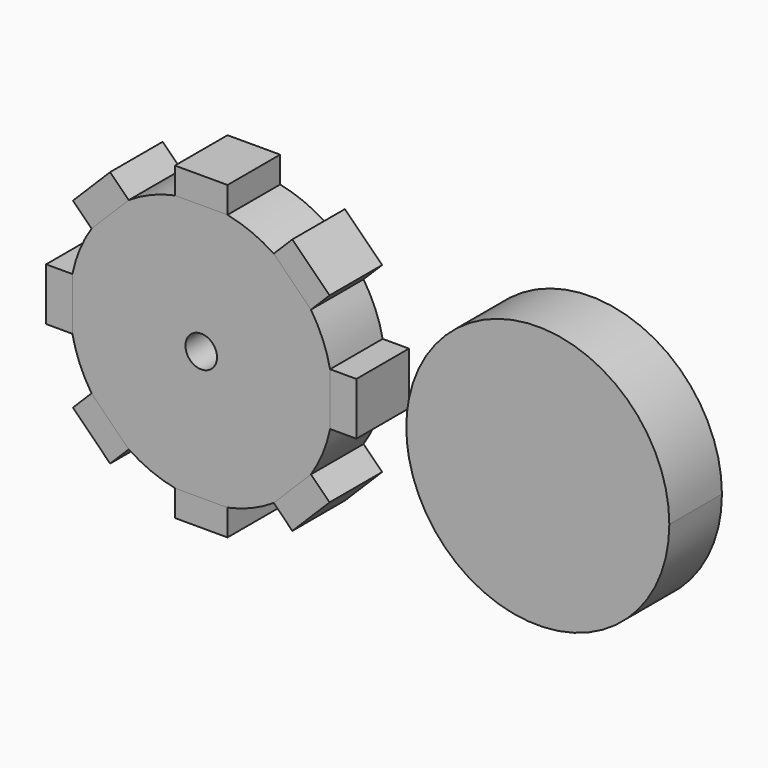
from build123d import *

# Parameters (mm, degrees)
F0_R     = 63.5
F1_DEPTH = 31.75
F3_DEPTH = 31.75
F4_W     = 25.4
F4_H     = 12.7
F5_DEPTH = 31.75
F4_W_2   = 12.7
F4_H_2   = 25.4
F6_R     = 7.62
F7_DEPTH = 31.75
F9_DEPTH = 31.75


with BuildPart() as f1:
    # F0 (on Front) → F1 (new body)
    with BuildSketch(Plane.XZ):
        Circle(F0_R)
    extrude(amount=F1_DEPTH)

    # F2 (on face) → F3 (cut)
    with BuildSketch(Plane.XZ.offset(31.75)):
        with BuildLine():
            ThreePointArc((12.7, 62.2170394667), (0, 63.5), (-12.7, 62.2170394667))
            Line((-12.7, 62.2170394667), (12.7, 62.2170394667))
        make_face()
        with BuildLine():
            Line((-52.9743466333, 35.0138343912), (-35.0138343912, 52.9743466333))
            ThreePointArc((-35.0138343912, 52.9743466333), (-44.9012806053, 44.9012806053), (-52.9743466333, 35.0138343912))
        make_face()
        with BuildLine():
            Line((-62.2170394667, -12.7), (-62.2170394667, 12.7))
            ThreePointArc((-62.2170394667, 12.7), (-63.5, 0), (-62.2170394667, -12.7))
        make_face()
        with BuildLine():
            Line((-35.0138343912, -52.9743466333), (-52.9743466333, -35.0138343912))
            ThreePointArc((-52.9743466333, -35.0138343912), (-44.9012806053, -44.9012806053), (-35.0138343912, -52.9743466333))
        make_face()
        with BuildLine():
            Line((12.7, -62.2170394667), (-12.7, -62.2170394667))
            ThreePointArc((-12.7, -62.2170394667), (0, -63.5), (12.7, -62.2170394667))
        make_face()
        with BuildLine():
            Line((52.9743466333, -35.0138343912), (35.0138343912, -52.9743466333))
            ThreePointArc((35.0138343912, -52.9743466333), (44.9012806053, -44.9012806053), (52.9743466333, -35.0138343912))
        make_face()
        with BuildLine():
            Line((62.2170394667, 12.7), (62.2170394667, -12.7))
            ThreePointArc((62.2170394667, -12.7), (63.5, 0), (62.2170394667, 12.7))
        make_face()
        with BuildLine():
            Line((35.0138343912, 52.9743466333), (52.9743466333, 35.0138343912))
            ThreePointArc((52.9743466333, 35.0138343912), (44.9012806053, 44.9012806053), (35.0138343912, 52.9743466333))
        make_face()
    extrude(amount=-F3_DEPTH, mode=Mode.SUBTRACT)

    # F6 (on face) → F7 (cut)
    with BuildSketch(Plane.XZ.offset(31.75)):
        Circle(F6_R)
    extrude(amount=-F7_DEPTH, mode=Mode.SUBTRACT)


with BuildPart() as f5:
    # F4 (on Front) → F5 (new body)
    with BuildSketch(Plane.XZ):
        with Locations((0, 68.5670394667)):
            Rectangle(F4_W, F4_H)
    extrude(amount=F5_DEPTH)


with BuildPart() as f5b:
    # F4 (on Front) → F5, piece 2 (new body)
    with BuildSketch(Plane.XZ):
        Polygon((-43.9940905122, 61.9546027544), (-61.9546027544, 43.9940905122), (-52.9743466333, 35.0138343912), (-35.0138343912, 52.9743466333), align=None)
    extrude(amount=F5_DEPTH)


with BuildPart() as f5c:
    # F4 (on Front) → F5, piece 3 (new body)
    with BuildSketch(Plane.XZ):
        with Locations((-68.5670394667, 0)):
            Rectangle(F4_W_2, F4_H_2)
    extrude(amount=F5_DEPTH)


with BuildPart() as f5d:
    # F4 (on Front) → F5, piece 4 (new body)
    with BuildSketch(Plane.XZ):
        Polygon((-61.9546027544, -43.9940905122), (-43.9940905122, -61.9546027544), (-35.0138343912, -52.9743466333), (-52.9743466333, -35.0138343912), align=None)
    extrude(amount=F5_DEPTH)


with BuildPart() as f5e:
    # F4 (on Front) → F5, piece 5 (new body)
    with BuildSketch(Plane.XZ):
        with Locations((0, -68.5670394667)):
            Rectangle(F4_W, F4_H)
    extrude(amount=F5_DEPTH)


with BuildPart() as f5f:
    # F4 (on Front) → F5, piece 6 (new body)
    with BuildSketch(Plane.XZ):
        Polygon((43.9940905122, -61.9546027544), (61.9546027544, -43.9940905122), (52.9743466333, -35.0138343912), (35.0138343912, -52.9743466333), align=None)
    extrude(amount=F5_DEPTH)


with BuildPart() as f5g:
    # F4 (on Front) → F5, piece 7 (new body)
    with BuildSketch(Plane.XZ):
        with Locations((68.5670394667, 0)):
            Rectangle(F4_W_2, F4_H_2)
    extrude(amount=F5_DEPTH)


with BuildPart() as f5h:
    # F4 (on Front) → F5, piece 8 (new body)
    with BuildSketch(Plane.XZ):
        Polygon((61.9546027544, 43.9940905122), (43.9940905122, 61.9546027544), (35.0138343912, 52.9743466333), (52.9743466333, 35.0138343912), align=None)
    extrude(amount=F5_DEPTH)


with BuildPart() as f9:
    # F8 (on Front) → F9 (new body)
    with BuildSketch(Plane.XZ):
        with BuildLine():
            ThreePointArc((226.0340789334, 0), (168.9163980207, 63.1784457158), (100.3170394667, 12.7))
            ThreePointArc((100.3170394667, 12.7), (99.0340789334, 0), (100.3170394667, -12.7))
            ThreePointArc((100.3170394667, -12.7), (168.9163980207, -63.1784457158), (226.0340789334, 0))
        make_face()
    extrude(amount=F9_DEPTH)


solid = Compound([f1.part, f5.part, f5b.part, f5c.part, f5d.part, f5e.part, f5f.part, f5g.part, f5h.part, f9.part])
